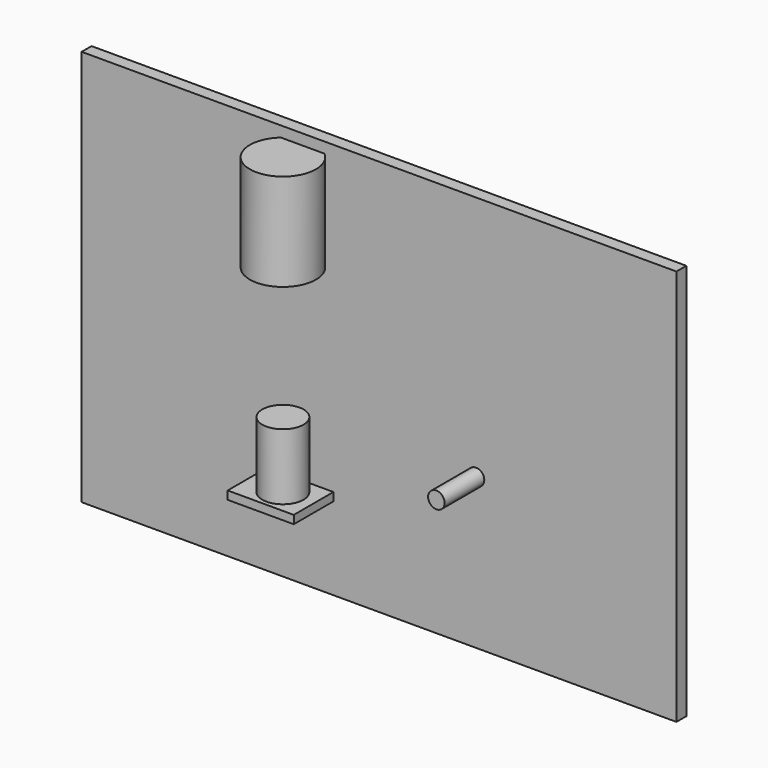
from build123d import *

# Parameters (mm, degrees)
F0_W     = 914.4
F0_H     = 609.6
F1_DEPTH = 9.525
F2_W     = 101.6
F2_H     = 12.7
F3_DEPTH = 76.2
F4_R     = 31.75
F5_DEPTH = 101.6
F6_R     = 12.7
F7_DEPTH = 76.2
F10_W    = 50.8
F10_H    = 149.3618286225


with BuildPart() as f1:
    # F0 (on Front) → F1 (new body, symmetric)
    with BuildSketch(Plane.XZ):
        Rectangle(F0_W, F0_H)
    extrude(amount=F1_DEPTH, both=True)


with BuildPart() as f3:
    # F2 (on face) → F3 (new body)
    with BuildSketch(Plane.XZ.offset(9.525)):
        with Locations((-120.9537057757, -171.45)):
            Rectangle(F2_W, F2_H)
    extrude(amount=F3_DEPTH)


with BuildPart() as f5:
    # F4 (on face) → F5 (new body)
    with BuildSketch(Plane.XY.offset(-165.1)):
        with Locations((-117.3004359007, -47.625)):
            Circle(F4_R)
    extrude(amount=F5_DEPTH)


with BuildPart() as f7:
    # F6 (on face) → F7 (new body)
    with BuildSketch(Plane.XZ.offset(9.525)):
        with Locations((149.0877121687, -73.5740661621)):
            Circle(F6_R)
    extrude(amount=F7_DEPTH)


with BuildPart() as f11:
    # F10 (on plane+point) → F11 (revolve)
    with BuildSketch(Plane.YZ.offset(-117.3004359007)):
        with Locations((-73.025, 213.6716130443)):
            Rectangle(F10_W, F10_H)
    revolve(axis=Axis((-117.3004359007, -47.625, 112.4262636778), (0, 0, 1)))


solid = Compound([f1.part, f3.part, f5.part, f7.part, f11.part])
